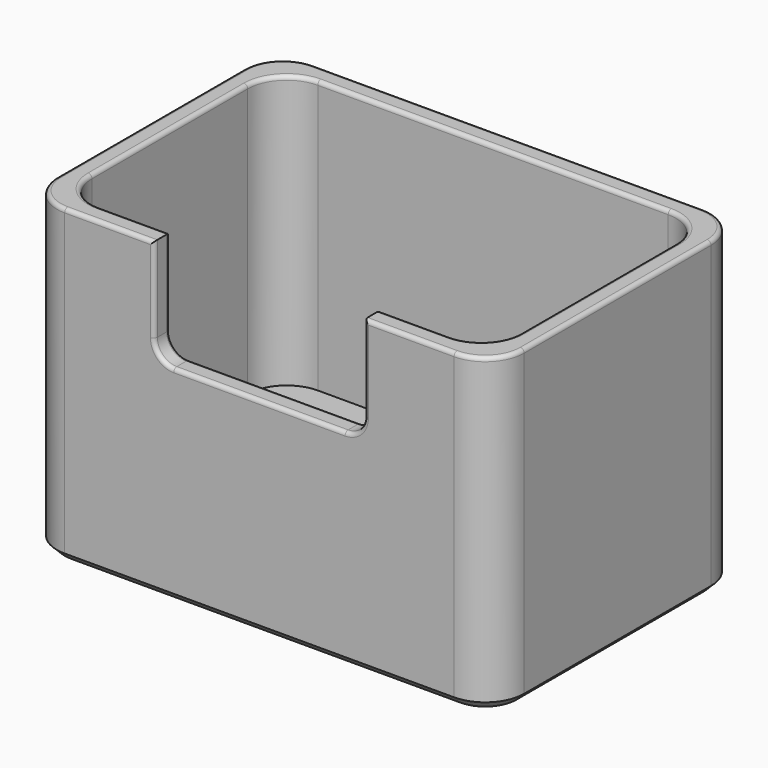
from build123d import *

# Parameters (mm, degrees)
PAD_DEPTH       = 40
POCKET_DEPTH    = 35
POCKET001_DEPTH = 5
FILLET_R        = 0.5
FILLET001_R     = 0.5
CHAMFER_SIZE    = 1


with BuildPart() as part:
    # Sketch → Pad (new body)
    with BuildSketch(Plane.XY):
        with BuildLine():
            Line((-25, 20), (25, 20))
            ThreePointArc((30, 15), (28.535534, 18.535534), (25, 20))
            Line((30, 15), (30, -15))
            ThreePointArc((25, -20), (28.535534, -18.535534), (30, -15))
            Line((25, -20), (-25, -20))
            ThreePointArc((-30, -15), (-28.535534, -18.535534), (-25, -20))
            Line((-30, -15), (-30, 15))
            ThreePointArc((-25, 20), (-28.535534, 18.535534), (-30, 15))
        make_face()
    extrude(amount=PAD_DEPTH)

    # Sketch001 (on Face10 of Pad) → Pocket (cut)
    with BuildSketch(Plane.XY.offset(40)):
        with BuildLine():
            Line((-22.5, 17.5), (22.5, 17.5))
            ThreePointArc((27.5, 12.5), (26.035534, 16.035534), (22.5, 17.5))
            Line((27.5, 12.5), (27.5, -12.5))
            ThreePointArc((22.5, -17.5), (26.035534, -16.035534), (27.5, -12.5))
            Line((22.5, -17.5), (-22.5, -17.5))
            ThreePointArc((-27.5, -12.5), (-26.035534, -16.035534), (-22.5, -17.5))
            Line((-27.5, -12.5), (-27.5, 12.5))
            ThreePointArc((-22.5, 17.5), (-26.035534, 16.035534), (-27.5, 12.5))
        make_face()
    extrude(amount=-POCKET_DEPTH, mode=Mode.SUBTRACT)

    # Sketch002 (on Face6 of Pocket) → Pocket001 (cut)
    with BuildSketch(Plane.XZ.offset(20)):
        with BuildLine():
            Line((-13.5, 40), (13.5, 40))
            Line((13.5, 40), (13.5, 28.982013))
            ThreePointArc((11, 26.482013), (12.767767, 27.214246), (13.5, 28.982013))
            Line((11, 26.482013), (-11, 26.482013))
            ThreePointArc((-13.5, 28.982013), (-12.767767, 27.214246), (-11, 26.482013))
            Line((-13.5, 28.982013), (-13.5, 40))
        make_face()
    extrude(amount=-POCKET001_DEPTH, mode=Mode.SUBTRACT)

    # Fillet
    fillet_edges = [part.edges().sort_by_distance(p)[0] for p in [
        (13.5, -17.5, 34.491006),
        (12.767767, -17.5, 27.214246),
        (0, -17.5, 26.482013),
        (-12.767767, -17.5, 27.214246),
        (-13.5, -17.5, 34.491006),
        (-18, -17.5, 40),
        (-26.035534, -16.035534, 40),
        (-27.5, 0, 40),
        (-26.035534, 16.035534, 40),
        (0, 17.5, 40),
        (26.035534, 16.035534, 40),
        (27.5, 0, 40),
        (26.035534, -16.035534, 40),
        (18, -17.5, 40),
    ]]
    fillet(fillet_edges, radius=FILLET_R)

    # Fillet001
    fillet001_edges = [part.edges().sort_by_distance(p)[0] for p in [
        (-19.25, -20, 40),
        (-13.5, -20, 34.491006),
        (-12.767767, -20, 27.214246),
        (0, -20, 26.482013),
        (12.767767, -20, 27.214246),
        (13.5, -20, 34.491006),
        (19.25, -20, 40),
        (28.535534, -18.535534, 40),
        (30, 0, 40),
        (28.535534, 18.535534, 40),
        (0, 20, 40),
        (-28.535534, 18.535534, 40),
        (-30, 0, 40),
        (-28.535534, -18.535534, 40),
    ]]
    fillet(fillet001_edges, radius=FILLET001_R)

    # Chamfer
    chamfer_edges = [part.edges().sort_by_distance(p)[0] for p in [
        (0, -20, 0),
        (28.535534, -18.535534, 0),
        (30, 0, 0),
        (28.535534, 18.535534, 0),
        (0, 20, 0),
        (-28.535534, 18.535534, 0),
        (-30, 0, 0),
        (-28.535534, -18.535534, 0),
    ]]
    chamfer(chamfer_edges, length=CHAMFER_SIZE)


solid = part.part
